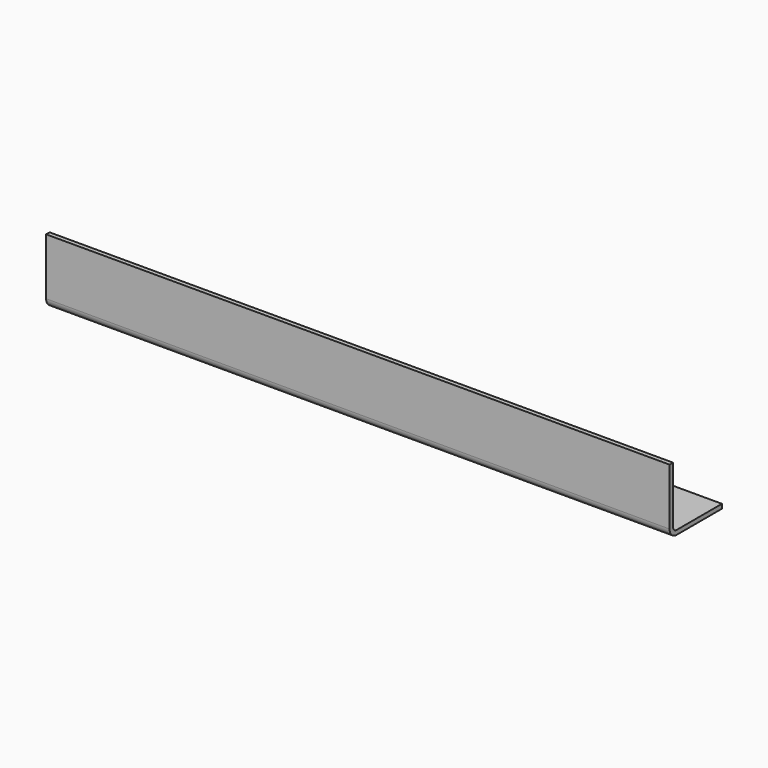
from build123d import *

# Parameters (mm, degrees)
F0_W     = 715
F0_H     = 75
F1_DEPTH = 75
F2_R     = 10
F3_T     = -5


with BuildPart() as f1:
    # F0 (on Front) → F1 (new body)
    with BuildSketch(Plane.XZ):
        with Locations((-357.5, 37.5)):
            Rectangle(F0_W, F0_H)
    extrude(amount=-F1_DEPTH)

    # F2
    f2_edges = [f1.edges().sort_by_distance(p)[0] for p in [
        (-357.5, 0, 0),
    ]]
    fillet(f2_edges, radius=F2_R)

    # F3
    f3_openings = [f1.faces().sort_by_distance(p)[0] for p in [
        (-357.5, 37.5, 75),
        (-357.5, 75, 37.5),
        (0, 37.635061, 37.635061),
        (-715, 37.635061, 37.635061),
    ]]
    offset(amount=F3_T, openings=f3_openings)


solid = f1.part
